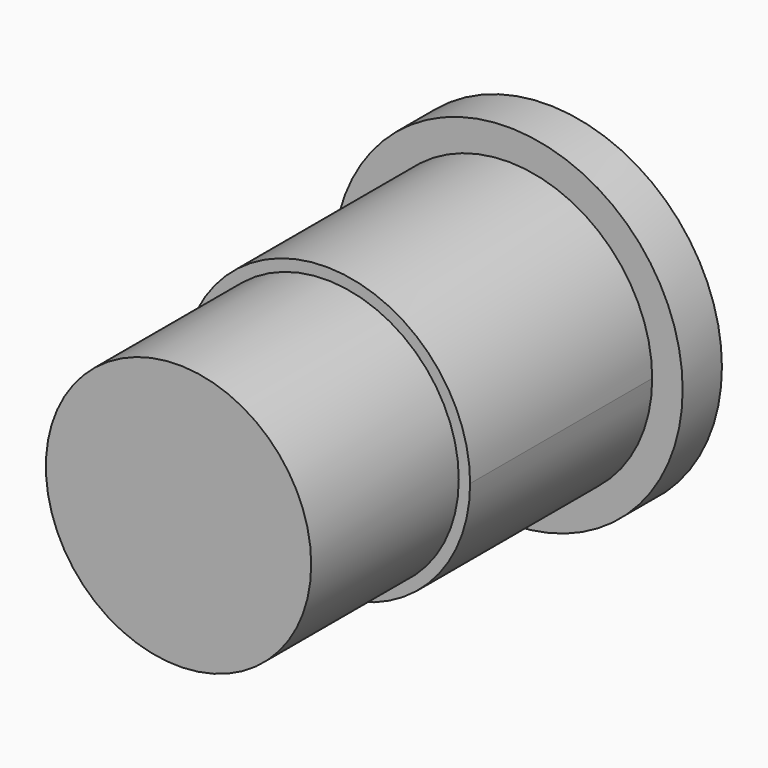
from build123d import *

# Parameters (mm, degrees)
F0_R      = 29.7932126591
F1_DEPTH  = 8.382
F2_R      = 24.5943618738
F3_DEPTH  = 38.862
F4_R      = 22.6553491942
F5_DEPTH  = 31.496
F7_DEPTH  = 39.116
F8_R      = 21.4427670818
F9_DEPTH  = 2.286
F10_DEPTH = 25.4


with BuildPart() as f1:
    # F0 (on Front) → F1 (new body)
    with BuildSketch(Plane.XZ):
        with Locations((-5.3459531628, 3.9943419397)):
            Circle(F0_R)
    extrude(amount=F1_DEPTH)

    # F2 (on face) → F3 (join)
    with BuildSketch(Plane.XZ.offset(8.382)):
        with Locations((-5.3459531628, 3.9943419397)):
            Circle(F2_R)
    extrude(amount=F3_DEPTH)

    # F4 (on face) → F5 (join)
    with BuildSketch(Plane.XZ.offset(47.244)):
        with Locations((-5.3459531628, 3.9943419397)):
            Circle(F4_R)
    extrude(amount=F5_DEPTH)

    # F6 (on face) → F7 (cut)
    with BuildSketch(Plane.XZ.offset(47.244)):
        with BuildLine():
            Line((-18.2745195925, -16.927770909), (-18.2745195925, -15.7896652818))
            Line((-18.2745195925, -15.7896652818), (-18.9284321236, -16.5092894767))
            ThreePointArc((-18.9284321236, -16.5092894767), (-18.6031272056, -16.7211105627), (-18.2745195925, -16.927770909))
        make_face()
    extrude(amount=-F7_DEPTH, mode=Mode.SUBTRACT)

    # F8 (on face) → F9 (cut)
    with BuildSketch(Plane(origin=(0, 0, 0), x_dir=(-1, 0, 0), z_dir=(0, 1, 0))):
        with Locations((5.3459531628, 3.9943419397)):
            Circle(F8_R)
    extrude(amount=-F9_DEPTH, mode=Mode.SUBTRACT)

    # F10 (cut): a face of the model
    f10_faces = [f1.faces().sort_by_distance(p)[0] for p in [
        (-5.3459531628, -2.286, 3.9943419397),
    ]]
    extrude(f10_faces, amount=-F10_DEPTH, mode=Mode.SUBTRACT)


solid = f1.part
